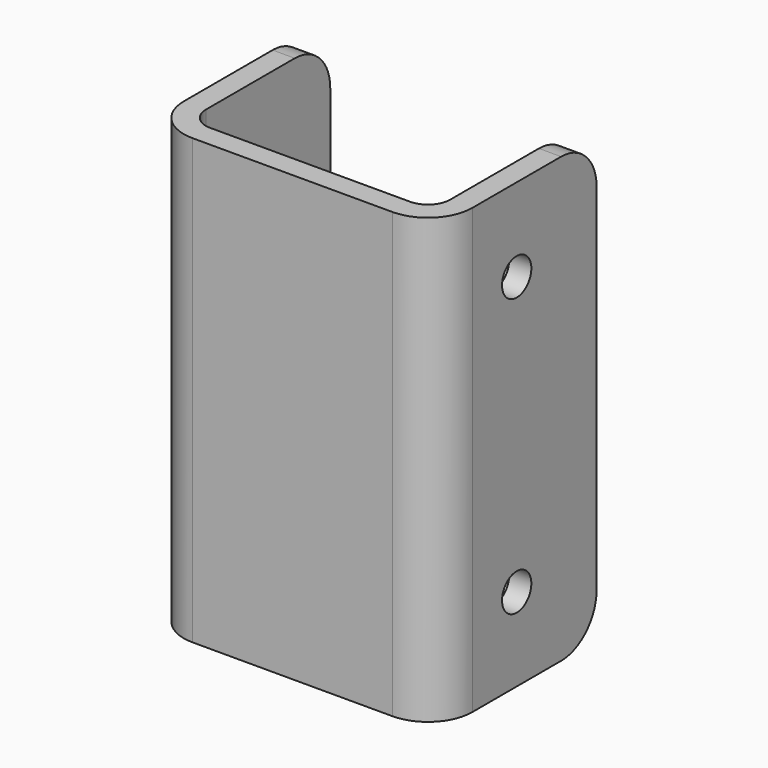
from build123d import *

# Parameters (mm, degrees)
F1_DEPTH = 100
F2_R     = 8.25
F3_DEPTH = 130.001
F4_R     = 20


with BuildPart() as f1:
    # F0 (on Top) → F1 (new body, symmetric)
    with BuildSketch(Plane.XY):
        with BuildLine():
            Line((-45, -45), (45, -45))
            ThreePointArc((45, -45), (59.142136, -39.142136), (65, -25))
            Line((65, -25), (65, 45))
            Line((65, 45), (55, 45))
            Line((55, 45), (55, -25))
            ThreePointArc((55, -25), (52.071068, -32.071068), (45, -35))
            Line((45, -35), (-45, -35))
            ThreePointArc((-45, -35), (-52.071068, -32.071068), (-55, -25))
            Line((-55, -25), (-55, 45))
            Line((-55, 45), (-65, 45))
            Line((-65, 45), (-65, -25))
            ThreePointArc((-65, -25), (-59.142136, -39.142136), (-45, -45))
        make_face()
    extrude(amount=F1_DEPTH, both=True)

    # F2 (on face) → F3 (cut, through all)
    with BuildSketch(Plane.YZ.offset(65)):
        with Locations((0, 62.5)):
            Circle(F2_R)
        with Locations((0, -62.5)):
            Circle(F2_R)
    extrude(amount=-F3_DEPTH, mode=Mode.SUBTRACT)

    # F4
    f4_edges = [f1.edges().sort_by_distance(p)[0] for p in [
        (60, 45, 100),
        (-60, 45, 100),
        (-60, 45, -100),
        (60, 45, -100),
    ]]
    fillet(f4_edges, radius=F4_R)


solid = f1.part
